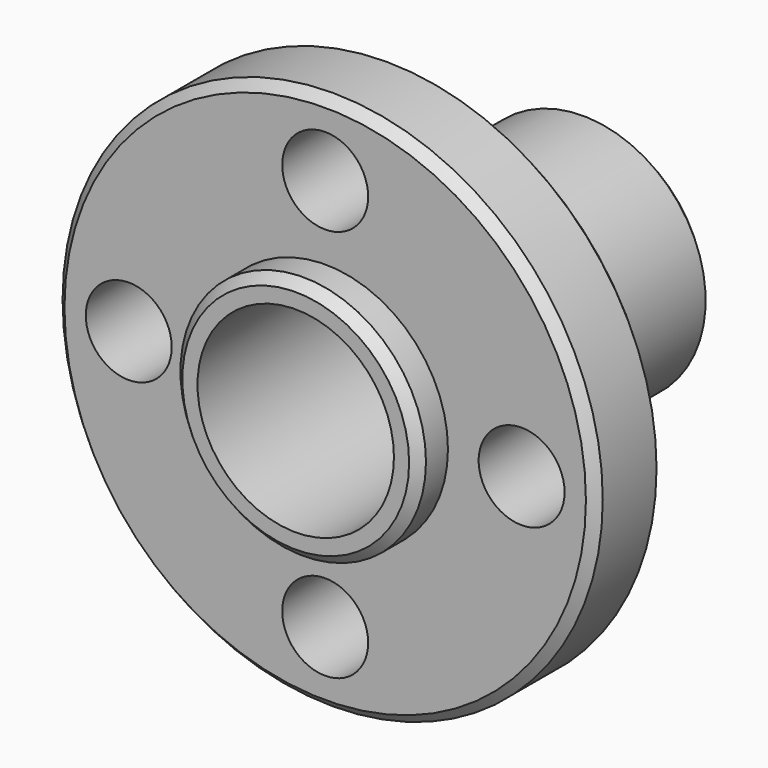
from build123d import *

# Parameters (mm, degrees)
F0_R     = 11
F1_DEPTH = 3.5
F2_R     = 5
F3_DEPTH = 1.5
F4_R     = 5
F5_DEPTH = 10
F6_R     = 4
F7_DEPTH = 25.4
F8_R     = 1.75
F9_DEPTH = 25.4
F10_SIZE = 0.381
F11_SIZE = 0.381


with BuildPart() as f1:
    # F0 (on Front) → F1 (new body)
    with BuildSketch(Plane.XZ):
        Circle(F0_R)
    extrude(amount=F1_DEPTH)

    # F2 (on face) → F3 (join)
    with BuildSketch(Plane.XZ.offset(3.5)):
        Circle(F2_R)
    extrude(amount=F3_DEPTH)

    # F4 (on face) → F5 (join)
    with BuildSketch(Plane(origin=(0, 0, 0), x_dir=(-1, 0, 0), z_dir=(0, 1, 0))):
        Circle(F4_R)
    extrude(amount=F5_DEPTH)

    # F6 (on face) → F7 (cut)
    with BuildSketch(Plane.XZ.offset(5)):
        Circle(F6_R)
    extrude(amount=-F7_DEPTH, mode=Mode.SUBTRACT)

    # F8 (on face) → F9 (cut)
    with BuildSketch(Plane.XZ.offset(3.5)):
        with Locations((-8, 0)):
            Circle(F8_R)
        with Locations((8, 0)):
            Circle(F8_R)
        with Locations((0, 8)):
            Circle(F8_R)
        with Locations((0, -8)):
            Circle(F8_R)
    extrude(amount=-F9_DEPTH, mode=Mode.SUBTRACT)

    # F10
    f10_edges = [f1.edges().sort_by_distance(p)[0] for p in [
        (11, -1.75, 0),
        (-11, 0, 0),
        (-11, -3.5, 0),
    ]]
    chamfer(f10_edges, length=F10_SIZE)

    # F11
    f11_edges = [f1.edges().sort_by_distance(p)[0] for p in [
        (5, 10, 0),
        (-5, -5, 0),
    ]]
    chamfer(f11_edges, length=F11_SIZE)


solid = f1.part
